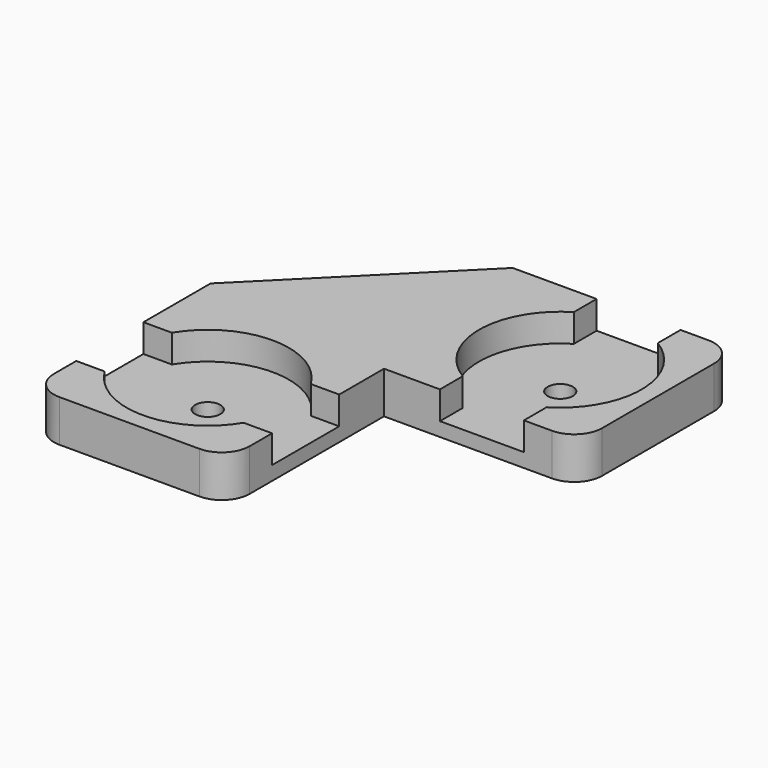
from build123d import *

# Parameters (mm, degrees)
SKETCH006_W                 = 14
SKETCH006_H                 = 14
PAD002_DEPTH                = 3
POCKET004_DEPTH             = 2
SKETCH008_R                 = 0.9
POCKET005_DEPTH             = 1.001
CLONE001007_PLACEMENT_ANGLE = 90
PAD_DEPTH                   = 3
SKETCH010_W                 = 12
SKETCH010_H                 = 12
POCKET_DEPTH                = 2
CLONE001006_PLACEMENT_ANGLE = 180
FILLET001_R                 = 2


with BuildPart() as obj1:
    # Sketch006 → Pad002 (new body)
    with BuildSketch(Plane.XY):
        Rectangle(SKETCH006_W, SKETCH006_H)
    extrude(amount=PAD002_DEPTH)

    # Sketch007 → Pocket004 (cut)
    with BuildSketch(Plane.XY.offset(3)):
        with BuildLine():
            Line((-3, 7), (-3, 4.963869))
            ThreePointArc((-3, 4.963869), (-5.8, 0), (-3, -4.963869))
            Line((-3, -7), (-3, -4.963869))
            Line((3, -7), (-3, -7))
            Line((3, -4.963869), (3, -7))
            ThreePointArc((3, -4.963869), (5.8, 0), (3, 4.963869))
            Line((3, 7), (3, 4.963869))
            Line((-3, 7), (3, 7))
        make_face()
    extrude(amount=-POCKET004_DEPTH, mode=Mode.SUBTRACT)

    # Sketch008 → Pocket005 (cut, through all)
    with BuildSketch(Plane.XY.offset(1)):
        Circle(SKETCH008_R)
    extrude(amount=-POCKET005_DEPTH, mode=Mode.SUBTRACT)


with BuildPart() as obj1_1:
    # Clone001005 placement: moved
    add(obj1.part.moved(Location((14, 0, 0))))


with BuildPart() as obj2:
    # Clone001007 base: copy of obj1
    add(obj1_1.part)


with BuildPart() as obj2_1:
    # Clone001007 placement: moved
    add(obj2.part.moved(Location((0, -28, 0))).rotate(Axis((0, -28, 0), (0, 0, 1)), CLONE001007_PLACEMENT_ANGLE))


with BuildPart() as obj3:
    # Sketch → Pad (new body)
    with BuildSketch(Plane.XY):
        Polygon((-7, -7), (-7, 7), (7, 7), (7, 5), (-5, -7), align=None)
    extrude(amount=PAD_DEPTH)

    # Sketch010 → Pocket (cut)
    with BuildSketch(Plane(origin=(0, 0, 0), x_dir=(1, 0, 0), z_dir=(0, 0, -1))):
        with Locations((1, 1)):
            Rectangle(SKETCH010_W, SKETCH010_H)
    extrude(amount=-POCKET_DEPTH, mode=Mode.SUBTRACT)


with BuildPart() as obj3_1:
    # Clone001006 placement: moved
    add(obj3.part.rotate(Axis((0, 0, 0), (0, 0, 1)), CLONE001006_PLACEMENT_ANGLE))


with BuildPart() as corner_holder_double:
    # Fusion001 base: copy of obj1
    add(obj1_1.part)

    # Fusion001: union obj2, obj3
    add(obj2_1.part)
    add(obj3_1.part)

    # Fillet001
    fillet001_edges = [corner_holder_double.edges().sort_by_distance(p)[0] for p in [
        (21, 7, 1.5),
        (21, -7, 1.5),
        (7, -21, 1.5),
        (-7, -21, 1.5),
    ]]
    fillet(fillet001_edges, radius=FILLET001_R)


with BuildPart() as corner_holder_double_1:
    # Clone001008 placement: moved
    add(corner_holder_double.part.moved(Location((-13.497608, 48.033168, 0))))


solid = corner_holder_double_1.part
